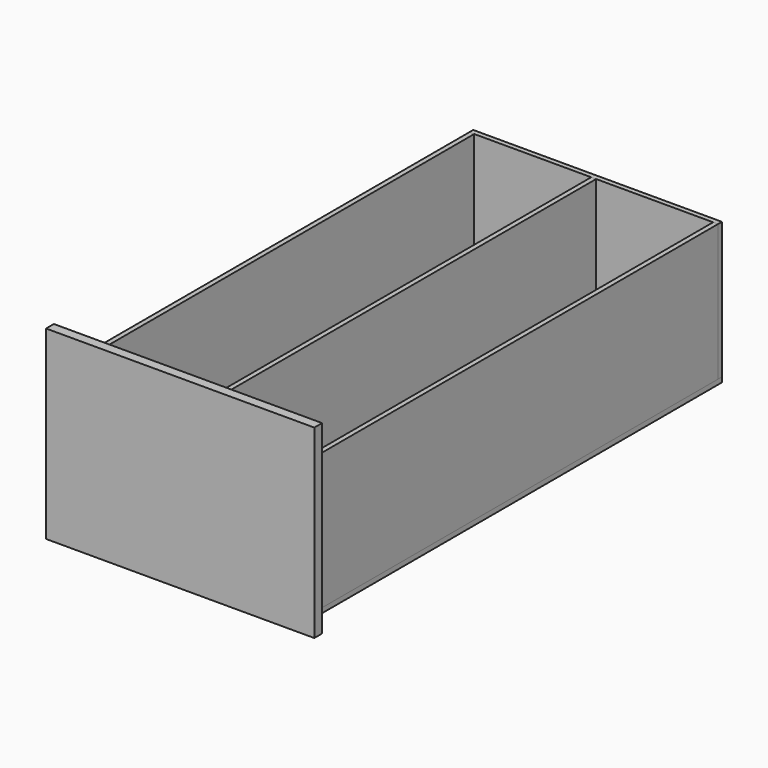
from build123d import *

# Parameters (mm, degrees)
F0_W      = 174.625
F0_H      = 120.65
F1_DEPTH  = 6.35
F3_W      = 330.2
F3_H      = 88.9
F4_DEPTH  = 3.175
F6_W      = 330.2
F6_H      = 88.9
F7_DEPTH  = 3.175
F8_W      = 161.925
F8_H      = 88.9
F9_DEPTH  = 3.175
F10_W     = 161.925
F10_H     = 333.375
F11_DEPTH = 3.175
F13_W     = 330.2
F13_H     = 88.9
F14_DEPTH = 1.5875


with BuildPart() as f1:
    # F0 (on Front) → F1 (new body)
    with BuildSketch(Plane.XZ):
        with Locations((87.3125, 60.325)):
            Rectangle(F0_W, F0_H)
    extrude(amount=F1_DEPTH)


with BuildPart() as f4:
    # F3 (on offset) → F4 (new body)
    with BuildSketch(Plane.YZ.offset(168.275)):
        with Locations((165.1, 53.975)):
            Rectangle(F3_W, F3_H)
    extrude(amount=-F4_DEPTH)


with BuildPart() as f7:
    # F6 (on offset) → F7 (new body)
    with BuildSketch(Plane(origin=(6.35, 0, 0), x_dir=(0, -1, 0), z_dir=(-1, 0, 0))):
        with Locations((-165.1, 53.975)):
            Rectangle(F6_W, F6_H)
    extrude(amount=-F7_DEPTH)


with BuildPart() as f9:
    # F8 (on face) → F9 (new body)
    with BuildSketch(Plane(origin=(0, 330.2, 0), x_dir=(-1, 0, 0), z_dir=(0, 1, 0))):
        with Locations((-87.3125, 53.975)):
            Rectangle(F8_W, F8_H)
    extrude(amount=F9_DEPTH)


with BuildPart() as f11:
    # F10 (on face) → F11 (new body)
    with BuildSketch(Plane(origin=(0, 0, 9.525), x_dir=(1, 0, 0), z_dir=(0, 0, -1))):
        with Locations((87.3125, -166.6875)):
            Rectangle(F10_W, F10_H)
    extrude(amount=F11_DEPTH)


with BuildPart() as f14:
    # F13 (on mid) → F14 (new body, symmetric)
    with BuildSketch(Plane.YZ.offset(87.3125)):
        with Locations((165.1, 53.975)):
            Rectangle(F13_W, F13_H)
    extrude(amount=F14_DEPTH, both=True)


solid = Compound([f1.part, f4.part, f7.part, f9.part, f11.part, f14.part])
